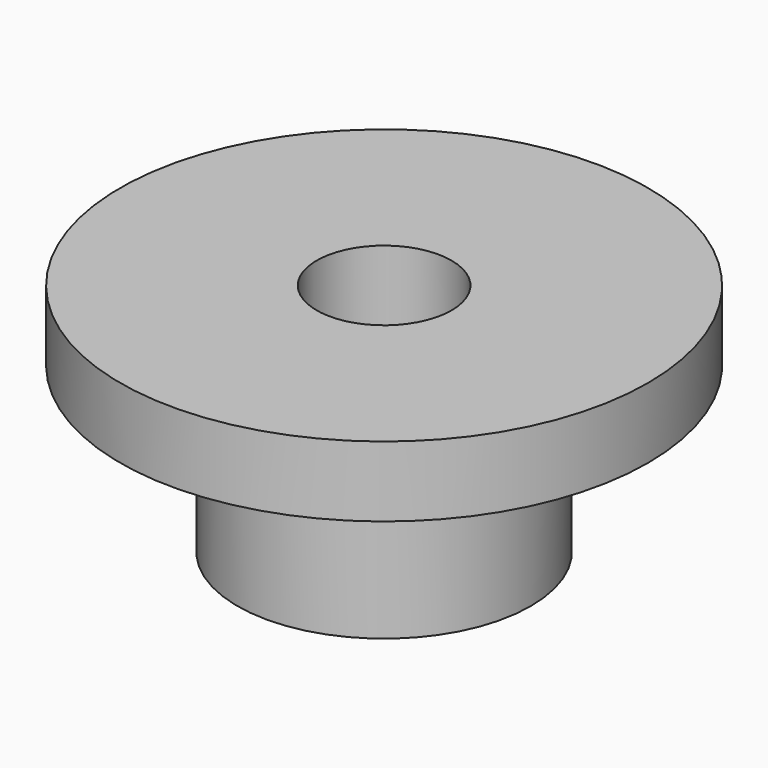
from build123d import *

# Parameters (mm, degrees)
SKETCH008_R     = 2.5
PAD005_DEPTH    = 4
SKETCH010_R     = 4.5
PAD006_DEPTH    = 1.2
SKETCH011_R     = 1.15
POCKET003_DEPTH = 4.001


with BuildPart() as part:
    # Sketch008 → Pad005 (new body)
    with BuildSketch(Plane.XY):
        Circle(SKETCH008_R)
    extrude(amount=PAD005_DEPTH)

    # Sketch010 → Pad006 (join)
    with BuildSketch(Plane.XY.offset(4)):
        Circle(SKETCH010_R)
    extrude(amount=-PAD006_DEPTH)

    # Sketch011 (on Face5 of Pad006) → Pocket003 (cut, through all)
    with BuildSketch(Plane.XY.offset(4)):
        Circle(SKETCH011_R)
    extrude(amount=-POCKET003_DEPTH, mode=Mode.SUBTRACT)


solid = part.part
